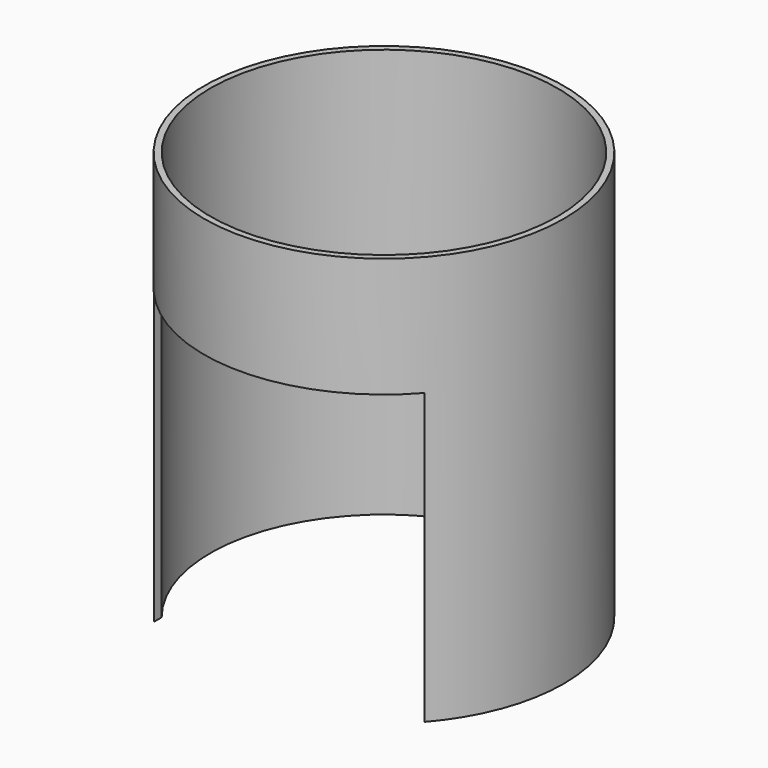
from build123d import *

# Parameters (mm, degrees)
SKETCH004_W      = 86
SKETCH004_H      = 92
EXTRUDE005_DEPTH = 68.155048
TUBE_R           = 57.15
TUBE_R_2         = 55.15
TUBE_DEPTH       = 130


with BuildPart() as holeboiler:
    # Sketch004 → Extrude005 (new body)
    with BuildSketch(Plane.XZ):
        with Locations((0, 66)):
            Rectangle(SKETCH004_W, SKETCH004_H)
    extrude(amount=EXTRUDE005_DEPTH)


with BuildPart() as cut:
    # Tube → Tube (new body)
    with BuildSketch(Plane.XY.offset(20)):
        Circle(TUBE_R)
        Circle(TUBE_R_2, mode=Mode.SUBTRACT)
    extrude(amount=TUBE_DEPTH)

    # Cut: cut HoleBoiler
    add(holeboiler.part, mode=Mode.SUBTRACT)


solid = cut.part
